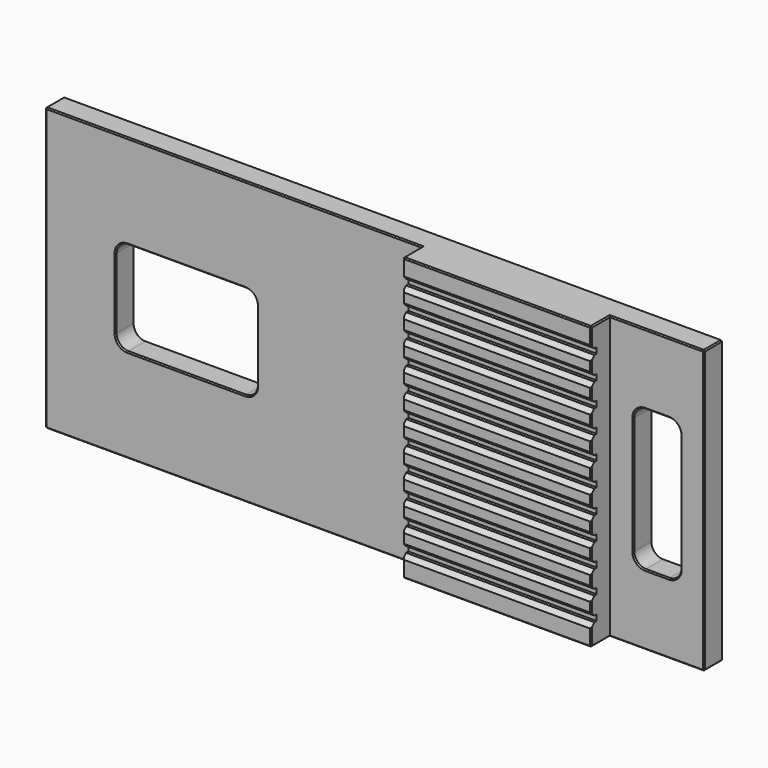
from build123d import *

# Parameters (mm, degrees)
F0_W      = 280
F0_H      = 120
F1_DEPTH  = 20
F2_W      = 160
F2_H      = 120
F3_DEPTH  = 10
F5_DEPTH  = 25
F6_W      = 40
F6_H      = 120
F7_DEPTH  = 10
F9_DEPTH  = 10.001
F11_DEPTH = 240.001
F12_SIZE  = 0.5
F13_SIZE  = 0.5
F14_SIZE  = 0.5


with BuildPart() as f1:
    # F0 (on Front) → F1 (new body)
    with BuildSketch(Plane.XZ):
        Rectangle(F0_W, F0_H)
    extrude(amount=F1_DEPTH)

    # F2 (on face) → F3 (cut)
    with BuildSketch(Plane.XZ.offset(20)):
        with Locations((-60, 0)):
            Rectangle(F2_W, F2_H)
    extrude(amount=-F3_DEPTH, mode=Mode.SUBTRACT)

    # F4 (on face) → F5 (cut)
    with BuildSketch(Plane.XZ.offset(10)):
        with BuildLine():
            Line((-105, -20), (-55, -20))
            ThreePointArc((-55, -20), (-51.4644660941, -18.5355339059), (-50, -15))
            Line((-50, -15), (-50, 15))
            ThreePointArc((-50, 15), (-51.4644660941, 18.5355339059), (-55, 20))
            Line((-55, 20), (-105, 20))
            ThreePointArc((-105, 20), (-108.5355339059, 18.5355339059), (-110, 15))
            Line((-110, 15), (-110, -15))
            ThreePointArc((-110, -15), (-108.5355339059, -18.5355339059), (-105, -20))
        make_face()
    extrude(amount=-F5_DEPTH, mode=Mode.SUBTRACT)

    # F6 (on face) → F7 (cut)
    with BuildSketch(Plane.XZ.offset(20)):
        with Locations((120, 0)):
            Rectangle(F6_W, F6_H)
    extrude(amount=-F7_DEPTH, mode=Mode.SUBTRACT)

    # F8 (on face) → F9 (cut, through all)
    with BuildSketch(Plane.XZ.offset(10)):
        with BuildLine():
            ThreePointArc((110, -25), (111.4644660941, -28.5355339059), (115, -30))
            Line((115, -30), (125, -30))
            ThreePointArc((125, -30), (128.5355339059, -28.5355339059), (130, -25))
            Line((130, -25), (130, 25))
            ThreePointArc((130, 25), (128.5355339059, 28.5355339059), (125, 30))
            Line((125, 30), (115, 30))
            ThreePointArc((115, 30), (111.4644660941, 28.5355339059), (110, 25))
            Line((110, 25), (110, -25))
        make_face()
    extrude(amount=-F9_DEPTH, mode=Mode.SUBTRACT)

    # F10 (on face) → F11 (cut, through all)
    with BuildSketch(Plane.YZ.offset(100)):
        Polygon((-18.25, -51.25), (-17, -51.25), (-17, -48.75), (-18.25, -48.75), (-20, -47), (-20, -53), align=None)
        Polygon((-20, -37), (-20, -43), (-18.25, -41.25), (-17, -41.25), (-17, -38.75), (-18.25, -38.75), align=None)
        Polygon((-20, -27), (-20, -33), (-18.25, -31.25), (-17, -31.25), (-17, -28.75), (-18.25, -28.75), align=None)
        Polygon((-20, -17), (-20, -23), (-18.25, -21.25), (-17, -21.25), (-17, -18.75), (-18.25, -18.75), align=None)
        Polygon((-20, -7), (-20, -13), (-18.25, -11.25), (-17, -11.25), (-17, -8.75), (-18.25, -8.75), align=None)
        Polygon((-20, 3), (-20, -3), (-18.25, -1.25), (-17, -1.25), (-17, 1.25), (-18.25, 1.25), align=None)
        Polygon((-20, 13), (-20, 7), (-18.25, 8.75), (-17, 8.75), (-17, 11.25), (-18.25, 11.25), align=None)
        Polygon((-20, 23), (-20, 17), (-18.25, 18.75), (-17, 18.75), (-17, 21.25), (-18.25, 21.25), align=None)
        Polygon((-20, 33), (-20, 27), (-18.25, 28.75), (-17, 28.75), (-17, 31.25), (-18.25, 31.25), align=None)
        Polygon((-20, 43), (-20, 37), (-18.25, 38.75), (-17, 38.75), (-17, 41.25), (-18.25, 41.25), align=None)
        Polygon((-20, 53), (-20, 47), (-18.25, 48.75), (-17, 48.75), (-17, 51.25), (-18.25, 51.25), align=None)
    extrude(amount=-F11_DEPTH, mode=Mode.SUBTRACT)

    # F12
    f12_edges = [f1.edges().sort_by_distance(p)[0] for p in [
        (60, -20, -60),
        (100, -20, -56.5),
        (100, -20, -45),
        (100, -20, -25),
        (100, -20, -15),
        (100, -20, -35),
        (100, -20, -5),
        (100, -20, 5),
        (100, -20, 15),
        (100, -20, 25),
        (100, -20, 35),
        (100, -20, 45),
        (100, -20, 56.5),
        (60, -20, 60),
        (20, -20, -56.5),
        (20, -20, -45),
        (20, -20, -35),
        (20, -20, -25),
        (20, -20, -15),
        (20, -20, -5),
        (20, -20, 5),
        (20, -20, 15),
        (20, -20, 25),
        (20, -20, 56.5),
        (20, -20, 45),
        (20, -20, 35),
    ]]
    chamfer(f12_edges, length=F12_SIZE)

    # F13
    f13_edges = [f1.edges().sort_by_distance(p)[0] for p in [
        (110, -10, 0),
        (-80, -10, -20),
        (-80, 0, -20),
        (110, 0, 0),
    ]]
    chamfer(f13_edges, length=F13_SIZE)

    # F14
    f14_edges = [f1.edges().sort_by_distance(p)[0] for p in [
        (-140, -5, 60),
        (-140, -10, 0),
        (-140, 0, 0),
        (-140, -5, -60),
        (-60, -10, 60),
        (0, 0, 60),
        (20, -14.75, 60),
        (20, -14.75, -60),
        (-60, -10, -60),
        (0, 0, -60),
        (140, -5, 60),
        (140, 0, 0),
        (140, -10, 0),
        (140, -5, -60),
        (100, -14.75, 60),
        (120, -10, 60),
        (120, -10, -60),
        (100, -14.75, -60),
    ]]
    chamfer(f14_edges, length=F14_SIZE)


solid = f1.part
